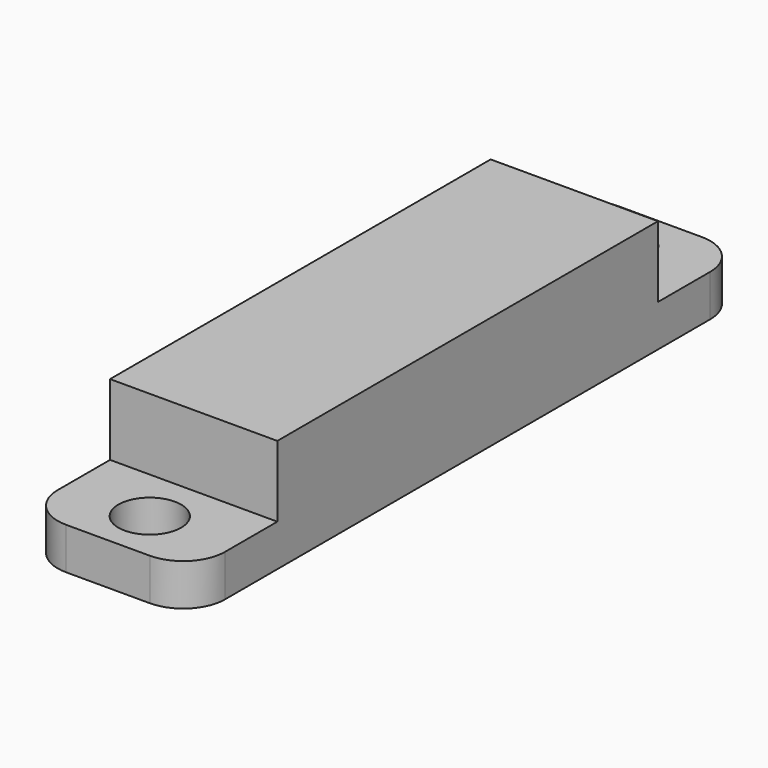
from build123d import *

# Parameters (mm, degrees)
PAD003_DEPTH    = 8
SKETCH006_R     = 1.5
POCKET002_DEPTH = 5
FILLET003_R     = 2


with BuildPart() as part:
    # Sketch005 → Pad003 (new body)
    with BuildSketch(Plane.YZ):
        Polygon((-17, -5), (-11.875, -5), (-11.875, -1.6), (10.875, -1.6), (10.875, -5), (16, -5), (16, -7), (-17, -7), align=None)
    extrude(amount=PAD003_DEPTH)

    # Sketch006 (on Face7 of Pad003) → Pocket002 (cut)
    with BuildSketch(Plane.YX.offset(7)):
        with Locations((-14.5, 4)):
            Circle(SKETCH006_R)
        with Locations((13.5, 4)):
            Circle(SKETCH006_R)
    extrude(amount=-POCKET002_DEPTH, mode=Mode.SUBTRACT)

    # Fillet003
    fillet003_edges = [part.edges().sort_by_distance(p)[0] for p in [
        (8, -17, -6),
        (0, -17, -6),
        (8, 16, -6),
        (0, 16, -6),
    ]]
    fillet(fillet003_edges, radius=FILLET003_R)


with BuildPart() as part_1:
    # Body002 placement: moved
    add(part.part.moved(Location((-13.25, 5, 0))))


solid = part_1.part
